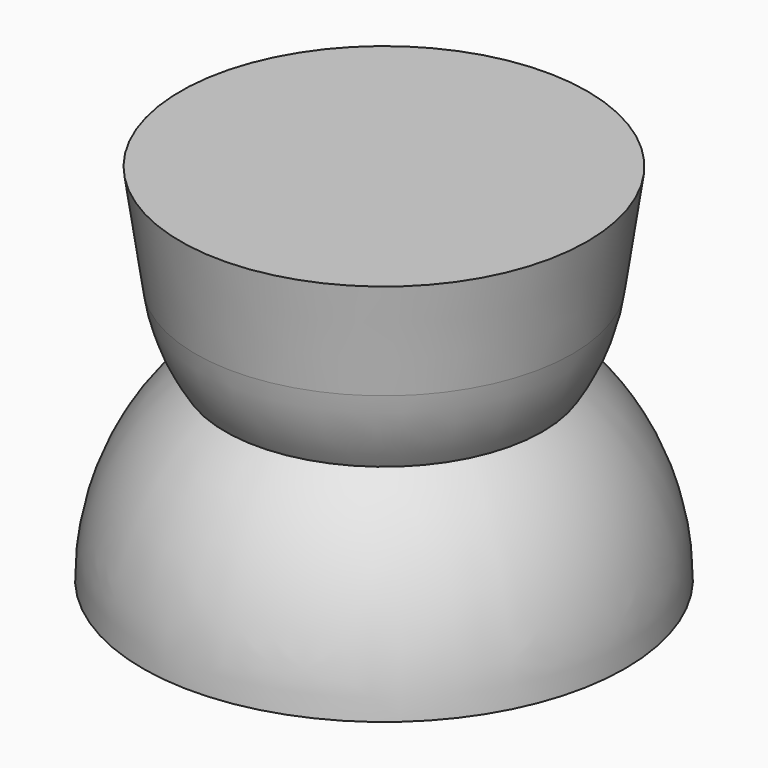
from build123d import *


with BuildPart() as f2:
    # F0 (on Front) → F2 (revolve)
    with BuildSketch(Plane.XZ):
        with BuildLine():
            Line((0, 0), (16.635264, 0))
            ThreePointArc((16.635264, 0), (15.145477, 6.880883), (10.942953, 12.529318))
            ThreePointArc((10.942953, 12.529318), (12.265483, 15.103527), (12.991761, 17.904984))
            Line((12.991761, 17.904984), (14.025442, 25.074016))
            Line((14.025442, 25.074016), (0, 25.074016))
            Line((0, 25.074016), (0, 0))
        make_face()
    revolve(axis=Axis((0, 0, 12.537008), (0, 0, -1)))


solid = f2.part
